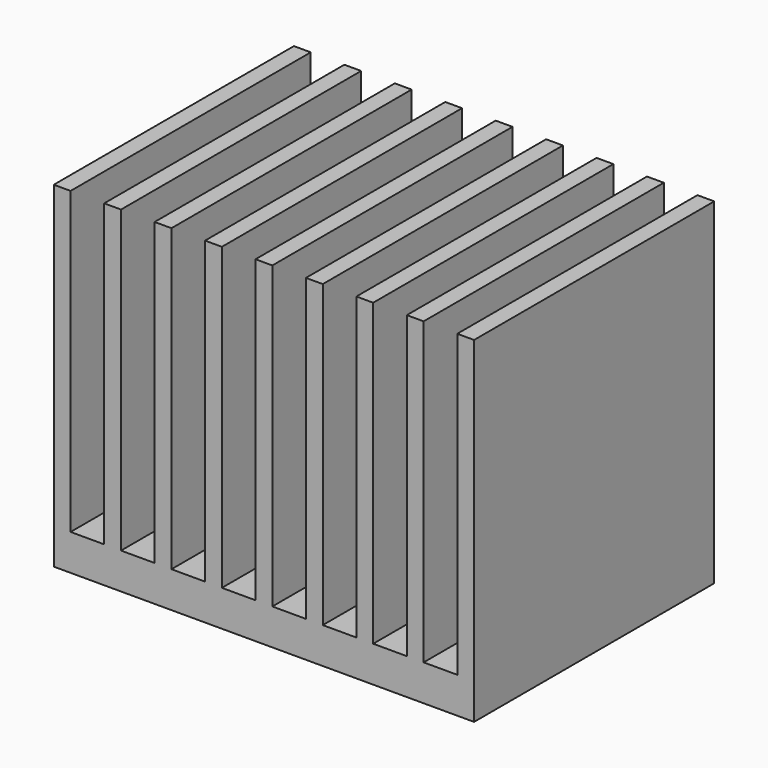
from build123d import *

# Parameters (mm, degrees)
F0_W     = 8.89
F0_H     = 6.35
F1_DEPTH = 0.762
F2_W     = 0.3556
F2_H     = 6.35
F3_DEPTH = 6.35


with BuildPart() as f1:
    # F0 (on Top) → F1 (new body)
    with BuildSketch(Plane.XY):
        Rectangle(F0_W, F0_H)
    extrude(amount=F1_DEPTH)

    # F2 (on face) → F3 (join)
    with BuildSketch(Plane.XY.offset(0.762)):
        with Locations((-4.2672, 0)):
            Rectangle(F2_W, F2_H)
        with Locations((-3.2004, 0)):
            Rectangle(F2_W, F2_H)
        with Locations((-2.1336, 0)):
            Rectangle(F2_W, F2_H)
        with Locations((-1.0668, 0)):
            Rectangle(F2_W, F2_H)
        Rectangle(F2_W, F2_H)
        with Locations((1.0668, 0)):
            Rectangle(F2_W, F2_H)
        with Locations((2.1336, 0)):
            Rectangle(F2_W, F2_H)
        with Locations((3.2004, 0)):
            Rectangle(F2_W, F2_H)
        with Locations((4.2672, 0)):
            Rectangle(F2_W, F2_H)
    extrude(amount=F3_DEPTH)


solid = f1.part
